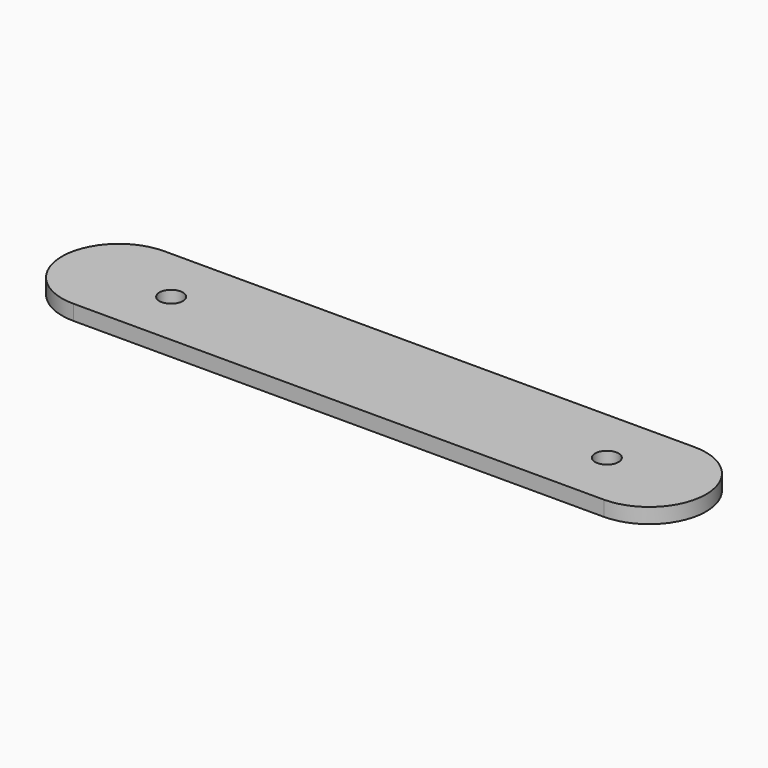
from build123d import *

# Parameters (mm, degrees)
SKETCH_R  = 1.55
PAD_DEPTH = 2


with BuildPart() as part:
    # Sketch → Pad (new body)
    with BuildSketch(Plane.XY):
        with BuildLine():
            ThreePointArc((-38.230034, 7.5), (-45.730034, 0), (-38.230034, -7.5))
            Line((-38.230034, -7.5), (31.769966, -7.5))
            ThreePointArc((31.769966, -7.5), (39.269966, 0), (31.769966, 7.5))
            Line((-38.230034, 7.5), (31.769966, 7.5))
        make_face()
        with Locations((-31.321444, 0)):
            Circle(SKETCH_R, mode=Mode.SUBTRACT)
        with Locations((26.178556, 0)):
            Circle(SKETCH_R, mode=Mode.SUBTRACT)
    extrude(amount=PAD_DEPTH)


solid = part.part
